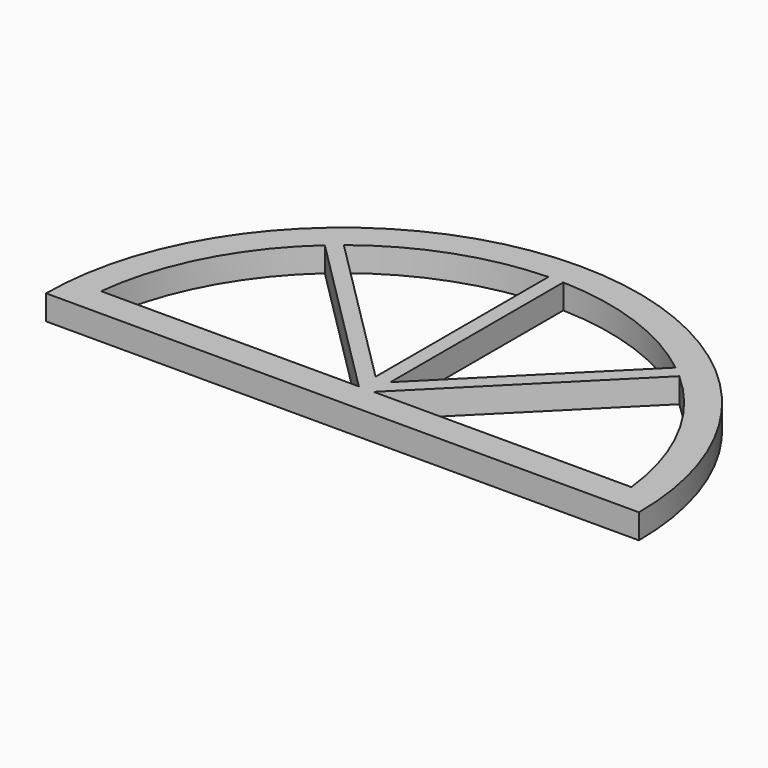
from build123d import *

# Parameters (mm, degrees)
F1_DEPTH = 25


with BuildPart() as f1:
    # F0 (on Top) → F1 (new body)
    with BuildSketch(Plane.XY):
        with BuildLine():
            ThreePointArc((-17.217742, 262.83602), (-229.349777, 174.968054), (-317.217742, -37.16398))
            Line((-317.217742, -37.16398), (-287.217742, -37.16398))
            ThreePointArc((-287.217742, -37.16398), (-286.799458, -22.140706), (-285.5459, -7.16398))
            ThreePointArc((-285.5459, -7.16398), (-256.973949, 87.001077), (-196.554829, 164.673106))
            ThreePointArc((-196.554829, 164.673106), (-190.879041, 169.576808), (-185.069229, 174.320956))
            ThreePointArc((-185.069229, 174.320956), (-109.629828, 216.52876), (-24.717742, 232.731833))
            ThreePointArc((-24.717742, 232.731833), (-17.217742, 232.83602), (-9.717742, 232.731833))
            ThreePointArc((-9.717742, 232.731833), (75.194344, 216.52876), (150.633745, 174.320956))
            ThreePointArc((150.633745, 174.320956), (156.443556, 169.576808), (162.119344, 164.673106))
            ThreePointArc((162.119344, 164.673106), (222.538464, 87.001077), (251.110415, -7.16398))
            ThreePointArc((251.110415, -7.16398), (252.363973, -22.140706), (252.782258, -37.16398))
            Line((252.782258, -37.16398), (282.782258, -37.16398))
            ThreePointArc((282.782258, -37.16398), (194.914292, 174.968054), (-17.217742, 262.83602))
        make_face()
        with BuildLine():
            ThreePointArc((-285.5459, -7.16398), (-286.799458, -22.140706), (-287.217742, -37.16398))
            Line((-287.217742, -37.16398), (252.782258, -37.16398))
            ThreePointArc((252.782258, -37.16398), (252.363973, -22.140706), (251.110415, -7.16398))
            Line((251.110415, -7.16398), (-9.717742, -7.16398))
            Line((-9.717742, -7.16398), (162.119344, 164.673106))
            ThreePointArc((162.119344, 164.673106), (156.443556, 169.576808), (150.633745, 174.320956))
            Line((150.633745, 174.320956), (-9.717742, 14.049223))
            Line((-9.717742, 14.049223), (-9.717742, 232.731833))
            ThreePointArc((-9.717742, 232.731833), (-17.217742, 232.83602), (-24.717742, 232.731833))
            Line((-24.717742, 232.731833), (-24.717742, 14.049223))
            Line((-24.717742, 14.049223), (-185.069229, 174.320956))
            ThreePointArc((-185.069229, 174.320956), (-190.879041, 169.576808), (-196.554829, 164.673106))
            Line((-196.554829, 164.673106), (-24.717742, -7.16398))
            Line((-24.717742, -7.16398), (-285.5459, -7.16398))
        make_face()
    extrude(amount=F1_DEPTH)


solid = f1.part
